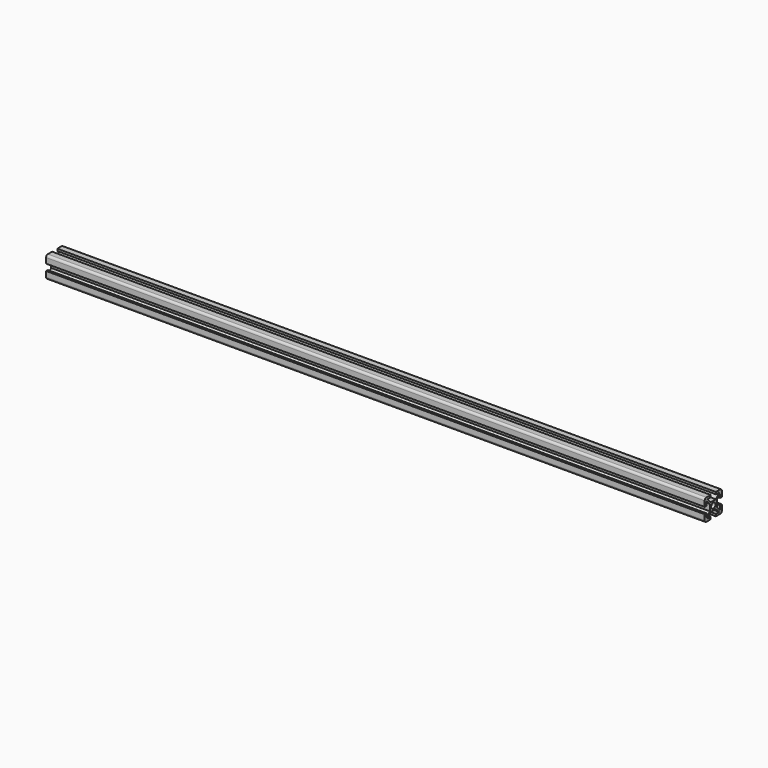
from build123d import *

# Parameters (mm, degrees)
SKETCH_R  = 2.5
PAD_DEPTH = 612


with BuildPart() as part:
    # Sketch → Pad (new body)
    with BuildSketch(Plane.YZ):
        with BuildLine():
            ThreePointArc((-8, 10), (-9.414214, 9.414214), (-10, 8))
            Line((-10, 8), (-10, 3))
            Line((-8, 3), (-10, 3))
            Line((-8, 3), (-8, 7))
            Line((-4, 3), (-8, 7))
            Line((-4, -3), (-4, 3))
            Line((-8, -7), (-4, -3))
            Line((-8, -7), (-8, -3))
            Line((-10, -3), (-8, -3))
            Line((-10, -3), (-10, -8))
            ThreePointArc((-10, -8), (-9.414214, -9.414214), (-8, -10))
            Line((-8, -10), (-3, -10))
            Line((-3, -10), (-3, -8))
            Line((-3, -8), (-7, -8))
            Line((-3, -4), (-7, -8))
            Line((3, -4), (-3, -4))
            Line((3, -4), (7, -8))
            Line((3, -8), (7, -8))
            Line((3, -10), (3, -8))
            Line((3, -10), (8, -10))
            ThreePointArc((8, -10), (9.414214, -9.414214), (10, -8))
            Line((10, -8), (10, -3))
            Line((10, -3), (8, -3))
            Line((8, -7), (8, -3))
            Line((4, -3), (8, -7))
            Line((4, 3), (4, -3))
            Line((4, 3), (8, 7))
            Line((8, 7), (8, 3))
            Line((8, 3), (10, 3))
            Line((10, 3), (10, 8))
            ThreePointArc((10, 8), (9.414214, 9.414214), (8, 10))
            Line((3, 10), (8, 10))
            Line((3, 10), (3, 8))
            Line((3, 8), (7, 8))
            Line((7, 8), (3, 4))
            Line((-3, 4), (3, 4))
            Line((-3, 4), (-7, 8))
            Line((-7, 8), (-3, 8))
            Line((-3, 8), (-3, 10))
            Line((-8, 10), (-3, 10))
        make_face()
        Circle(SKETCH_R, mode=Mode.SUBTRACT)
    extrude(amount=PAD_DEPTH)


solid = part.part
